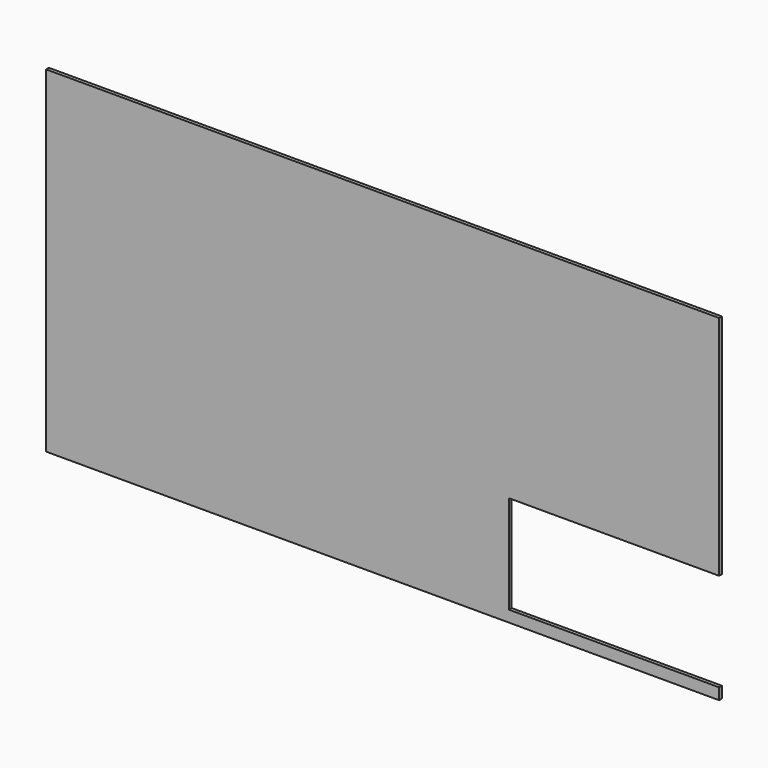
from build123d import *

# Parameters (mm, degrees)
F0_W     = 1135.0752
F0_H     = 431.8
F0_W_2   = 1573.2125
F0_H_2   = 111.125
F0_W_3   = 762
F0_H_3   = 355.6
F1_DEPTH = 12.7


with BuildPart() as f1:
    # F0 (on Front) → F1 (new body)
    with BuildSketch(Plane.XZ):
        with Locations((567.5376, 647.7)):
            Rectangle(F0_W, F0_H)
        Polygon((1135.0752, 431.8), (1135.0752, 0), (2438.4, 0), (2438.4, 41.275), (1676.4, 41.275), (1320.8, 41.275), (1320.8, 803.275), (1676.4, 803.275), (1676.4, 1108.075), (1573.2125, 1108.075), (1573.2125, 996.95), (0, 996.95), (0, 863.6), (1135.0752, 863.6), align=None)
        with Locations((786.60625, 1052.5125)):
            Rectangle(F0_W_2, F0_H_2)
        Polygon((0, 1219.2), (0, 1108.075), (1573.2125, 1108.075), (1676.4, 1108.075), (2438.4, 1108.075), (2438.4, 1219.2), align=None)
        Polygon((1676.4, 752.475), (2438.4, 752.475), (2438.4, 1108.075), (1676.4, 1108.075), (1676.4, 803.275), align=None)
        with Locations((2057.4, 574.675)):
            Rectangle(F0_W_3, F0_H_3)
        Polygon((1320.8, 41.275), (1676.4, 41.275), (1676.4, 396.875), (1676.4, 752.475), (1676.4, 803.275), (1320.8, 803.275), align=None)
        with Locations((567.5376, 215.9)):
            Rectangle(F0_W, F0_H)
    extrude(amount=F1_DEPTH)


solid = f1.part
